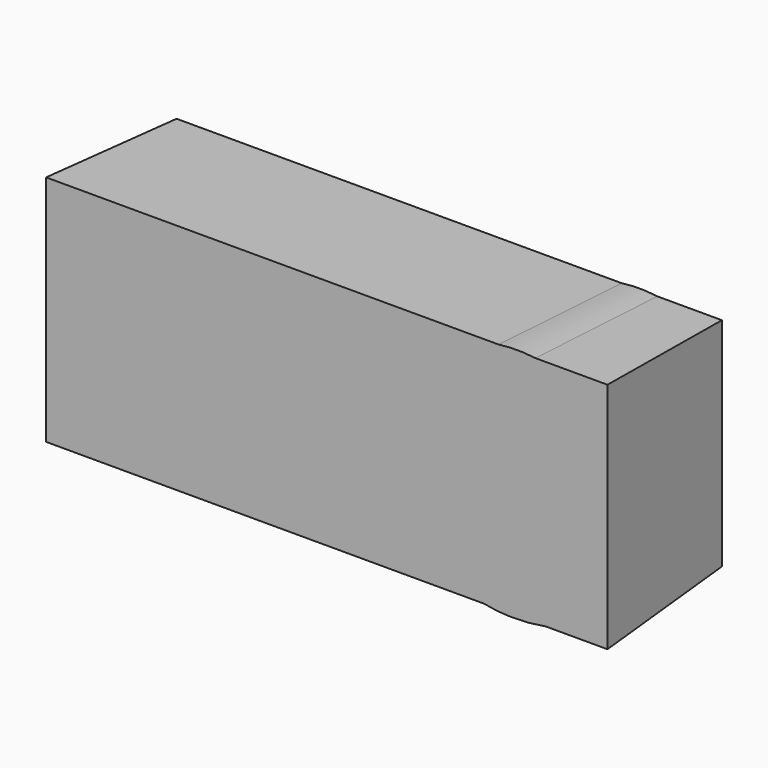
from build123d import *

# Parameters (mm, degrees)
F0_W     = 15.1299018604
F0_H     = 71.3400635711
F1_DEPTH = 50.8
F1_TAPER = -3


with BuildPart() as f1:
    # F0 (on Front) → F1 (new body)
    with BuildSketch(Plane.XZ):
        with BuildLine():
            Line((70.2194942339, 29.2845573276), (-77.4741098285, 29.2845573276))
            Line((-77.4741098285, 29.2845573276), (-77.4741098285, -42.664449662))
            Line((-77.4741098285, -42.664449662), (-68.4960978886, -42.664449662))
            Line((-68.4960978886, -42.664449662), (-68.4960978886, 28.6756139091))
            Line((-68.4960978886, 28.6756139091), (-49.4158707746, 28.6756139091))
            Line((-49.4158707746, 28.6756139091), (-18.4378260985, -24.7552675836))
            Line((-18.4378260985, -24.7552675836), (-18.0943195547, -24.7552675836))
            add(Edge.make_bspline(
                [(-18.0943195547, -24.7552675836), (-18.8281744437, -10.8432525602), (-18.8281744437, -5.0973249187)],
                knots=[0, 0, 0, 1, 1, 1], degree=2))
            Line((-18.8281744437, -5.0973249187), (-18.8281744437, 28.6756139091))
            Line((-18.8281744437, 28.6756139091), (-5.2128241627, 28.6756139091))
            Line((-5.2128241627, 28.6756139091), (-5.2128241627, -42.664449662))
            Line((-5.2128241627, -42.664449662), (12.7431997171, -42.664449662))
            Line((12.7431997171, -42.664449662), (12.7431997171, 28.6756139091))
            Line((12.7431997171, 28.6756139091), (27.8731015775, 28.6756139091))
            Line((27.8731015775, 28.6756139091), (27.8731015775, -42.664449662))
            Line((27.8731015775, -42.664449662), (65.4306029272, -42.664449662))
            add(Edge.make_bspline(
                [(65.4306029272, -42.664449662), (56.4874605856, -40.5998093133), (50.9036539451, -34.2016975378)],
                knots=[0.3226952609, 0.3226952609, 0.3226952609, 1, 1, 1], degree=2))
            add(Edge.make_bspline(
                [(50.9036539451, -34.2016975378), (42.6594968942, -24.7552675836), (42.6594968942, -7.0959084462)],
                knots=[0, 0, 0, 1, 1, 1], degree=2))
            add(Edge.make_bspline(
                [(42.6594968942, -7.0959084462), (42.6594968942, 4.0368263593), (46.7113127175, 12.4058948806)],
                knots=[0, 0, 0, 1, 1, 1], degree=2))
            add(Edge.make_bspline(
                [(46.7113127175, 12.4058948806), (50.7631285408, 20.774963402), (58.3515003717, 25.2327415043)],
                knots=[0, 0, 0, 1, 1, 1], degree=2))
            add(Edge.make_bspline(
                [(58.3515003717, 25.2327415043), (63.6498893999, 28.3452725075), (70.2194942339, 29.2845573276)],
                knots=[0, 0, 0, 0.6982247505, 0.6982247505, 0.6982247505], degree=2))
        make_face()
        with BuildLine():
            add(Edge.make_bspline(
                [(70.2194942339, 29.2845573276), (73.0589010821, 29.6905196066), (76.1357709796, 29.6905196066)],
                knots=[0.6982247505, 0.6982247505, 0.6982247505, 1, 1, 1], degree=2))
            Line((70.2194942339, 29.2845573276), (82.0547686942, 29.2845573276))
            add(Edge.make_bspline(
                [(76.1357709796, 29.6905196066), (79.0908434569, 29.6905196066), (82.0547686942, 29.2845573276)],
                knots=[0, 0, 0, 0.2845995164, 0.2845995164, 0.2845995164], degree=2))
        make_face()
        with BuildLine():
            Line((82.0547686942, 29.2845573276), (70.2194942339, 29.2845573276))
            add(Edge.make_bspline(
                [(58.3515003717, 25.2327415043), (63.6498893999, 28.3452725075), (70.2194942339, 29.2845573276)],
                knots=[0, 0, 0, 0.6982247505, 0.6982247505, 0.6982247505], degree=2))
            add(Edge.make_bspline(
                [(46.7113127175, 12.4058948806), (50.7631285408, 20.774963402), (58.3515003717, 25.2327415043)],
                knots=[0, 0, 0, 1, 1, 1], degree=2))
            add(Edge.make_bspline(
                [(42.6594968942, -7.0959084462), (42.6594968942, 4.0368263593), (46.7113127175, 12.4058948806)],
                knots=[0, 0, 0, 1, 1, 1], degree=2))
            add(Edge.make_bspline(
                [(50.9036539451, -34.2016975378), (42.6594968942, -24.7552675836), (42.6594968942, -7.0959084462)],
                knots=[0, 0, 0, 1, 1, 1], degree=2))
            add(Edge.make_bspline(
                [(65.4306029272, -42.664449662), (56.4874605856, -40.5998093133), (50.9036539451, -34.2016975378)],
                knots=[0.3226952609, 0.3226952609, 0.3226952609, 1, 1, 1], degree=2))
            Line((65.4306029272, -42.664449662), (85.3835391171, -42.664449662))
            add(Edge.make_bspline(
                [(94.3260038665, -39.9788530469), (90.0944151157, -41.7482896242), (85.3835391171, -42.664449662)],
                knots=[0, 0, 0, 0.4822306436, 0.4822306436, 0.4822306436], degree=2))
            Line((94.3260038665, -39.9788530469), (94.3260038665, -27.3003387944))
            add(Edge.make_bspline(
                [(76.1357709796, -31.0476829084), (83.6460731415, -31.0476829084), (94.3260038665, -27.3003387944)],
                knots=[0, 0, 0, 1, 1, 1], degree=2))
            add(Edge.make_bspline(
                [(58.2265889013, -7.189592049), (58.2265889013, -31.0476829084), (76.1357709796, -31.0476829084)],
                knots=[0, 0, 0, 1, 1, 1], degree=2))
            add(Edge.make_bspline(
                [(62.9107690438, 10.6883621617), (58.2265889013, 4.2710353664), (58.2265889013, -7.189592049)],
                knots=[0, 0, 0, 1, 1, 1], degree=2))
            add(Edge.make_bspline(
                [(76.1357709796, 17.105688957), (67.5949491864, 17.105688957), (62.9107690438, 10.6883621617)],
                knots=[0, 0, 0, 1, 1, 1], degree=2))
            add(Edge.make_bspline(
                [(84.0832632881, 15.6926279473), (80.0392544317, 17.105688957), (76.1357709796, 17.105688957)],
                knots=[0, 0, 0, 1, 1, 1], degree=2))
            add(Edge.make_bspline(
                [(92.1400531333, 12.374667013), (88.1272721445, 14.2795669377), (84.0832632881, 15.6926279473)],
                knots=[0, 0, 0, 1, 1, 1], degree=2))
            Line((92.1400531333, 12.374667013), (97.0116004816, 24.6784468541))
            add(Edge.make_bspline(
                [(82.0547686942, 29.2845573276), (89.5052154657, 28.2640861251), (97.0116004816, 24.6784468541)],
                knots=[0.2845995164, 0.2845995164, 0.2845995164, 1, 1, 1], degree=2))
        make_face()
        with BuildLine():
            Line((103.4913830121, 29.2845573276), (82.0547686942, 29.2845573276))
            add(Edge.make_bspline(
                [(82.0547686942, 29.2845573276), (89.5052154657, 28.2640861251), (97.0116004816, 24.6784468541)],
                knots=[0.2845995164, 0.2845995164, 0.2845995164, 1, 1, 1], degree=2))
            Line((97.0116004816, 24.6784468541), (92.1400531333, 12.374667013))
            add(Edge.make_bspline(
                [(92.1400531333, 12.374667013), (88.1272721445, 14.2795669377), (84.0832632881, 15.6926279473)],
                knots=[0, 0, 0, 1, 1, 1], degree=2))
            add(Edge.make_bspline(
                [(84.0832632881, 15.6926279473), (80.0392544317, 17.105688957), (76.1357709796, 17.105688957)],
                knots=[0, 0, 0, 1, 1, 1], degree=2))
            add(Edge.make_bspline(
                [(76.1357709796, 17.105688957), (67.5949491864, 17.105688957), (62.9107690438, 10.6883621617)],
                knots=[0, 0, 0, 1, 1, 1], degree=2))
            add(Edge.make_bspline(
                [(62.9107690438, 10.6883621617), (58.2265889013, 4.2710353664), (58.2265889013, -7.189592049)],
                knots=[0, 0, 0, 1, 1, 1], degree=2))
            add(Edge.make_bspline(
                [(58.2265889013, -7.189592049), (58.2265889013, -31.0476829084), (76.1357709796, -31.0476829084)],
                knots=[0, 0, 0, 1, 1, 1], degree=2))
            add(Edge.make_bspline(
                [(76.1357709796, -31.0476829084), (83.6460731415, -31.0476829084), (94.3260038665, -27.3003387944)],
                knots=[0, 0, 0, 1, 1, 1], degree=2))
            Line((94.3260038665, -27.3003387944), (94.3260038665, -39.9788530469))
            add(Edge.make_bspline(
                [(94.3260038665, -39.9788530469), (90.0944151157, -41.7482896242), (85.3835391171, -42.664449662)],
                knots=[0, 0, 0, 0.4822306436, 0.4822306436, 0.4822306436], degree=2))
            Line((85.3835391171, -42.664449662), (103.4913830121, -42.664449662))
            Line((103.4913830121, -42.664449662), (103.4913830121, 29.2845573276))
        make_face()
        with BuildLine():
            Line((-68.4960978886, 28.6756139091), (-68.4960978886, -42.664449662))
            Line((-68.4960978886, -42.664449662), (-54.9744312104, -42.664449662))
            Line((-54.9744312104, -42.664449662), (-54.9744312104, -9.0944919737))
            add(Edge.make_bspline(
                [(-55.9112672389, 11.2973055802), (-54.9744312104, -2.9894438546), (-54.9744312104, -9.0944919737)],
                knots=[0, 0, 0, 1, 1, 1], degree=2))
            Line((-55.9112672389, 11.2973055802), (-55.4740770923, 11.2973055802))
            Line((-55.4740770923, 11.2973055802), (-24.433576681, -42.664449662))
            Line((-24.433576681, -42.664449662), (-5.2128241627, -42.664449662))
            Line((-5.2128241627, -42.664449662), (-5.2128241627, 28.6756139091))
            Line((-5.2128241627, 28.6756139091), (-18.8281744437, 28.6756139091))
            Line((-18.8281744437, 28.6756139091), (-18.8281744437, -5.0973249187))
            add(Edge.make_bspline(
                [(-18.0943195547, -24.7552675836), (-18.8281744437, -10.8432525602), (-18.8281744437, -5.0973249187)],
                knots=[0, 0, 0, 1, 1, 1], degree=2))
            Line((-18.0943195547, -24.7552675836), (-18.4378260985, -24.7552675836))
            Line((-18.4378260985, -24.7552675836), (-49.4158707746, 28.6756139091))
            Line((-49.4158707746, 28.6756139091), (-68.4960978886, 28.6756139091))
        make_face()
        with BuildLine():
            Line((-54.9744312104, -9.0944919737), (-54.9744312104, -42.664449662))
            Line((-54.9744312104, -42.664449662), (-24.433576681, -42.664449662))
            Line((-24.433576681, -42.664449662), (-55.4740770923, 11.2973055802))
            Line((-55.4740770923, 11.2973055802), (-55.9112672389, 11.2973055802))
            add(Edge.make_bspline(
                [(-55.9112672389, 11.2973055802), (-54.9744312104, -2.9894438546), (-54.9744312104, -9.0944919737)],
                knots=[0, 0, 0, 1, 1, 1], degree=2))
        make_face()
        with BuildLine():
            add(Edge.make_bspline(
                [(85.3835391171, -42.664449662), (80.3254880251, -43.6481274919), (74.714903003, -43.6481274919)],
                knots=[0.4822306436, 0.4822306436, 0.4822306436, 1, 1, 1], degree=2))
            Line((85.3835391171, -42.664449662), (65.4306029272, -42.664449662))
            add(Edge.make_bspline(
                [(74.714903003, -43.6481274919), (69.6914761864, -43.6481274919), (65.4306029272, -42.664449662)],
                knots=[0, 0, 0, 0.3226952609, 0.3226952609, 0.3226952609], degree=2))
        make_face()
        with Locations((20.3081506473, -6.9944178764)):
            Rectangle(F0_W, F0_H)
    extrude(amount=F1_DEPTH, taper=F1_TAPER)


solid = f1.part
